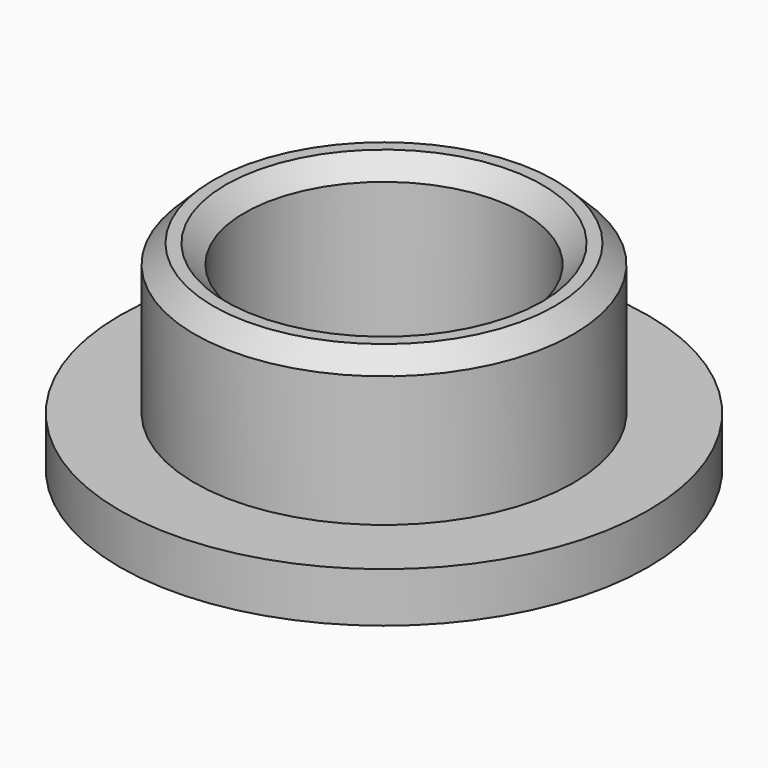
from build123d import *

# Parameters (mm, degrees)
F0_R     = 24.13
F0_R_2   = 17.78
F1_DEPTH = 25.4
F2_R     = 33.655
F2_R_2   = 24.13
F3_DEPTH = 6.35
F4_SIZE  = 2.38125


with BuildPart() as f1:
    # F0 (on Top) → F1 (new body)
    with BuildSketch(Plane.XY):
        Circle(F0_R)
        Circle(F0_R_2, mode=Mode.SUBTRACT)
    extrude(amount=F1_DEPTH)

    # F2 (on Top) → F3 (join)
    with BuildSketch(Plane.XY):
        Circle(F2_R)
        Circle(F2_R_2, mode=Mode.SUBTRACT)
    extrude(amount=F3_DEPTH)

    # F4
    f4_edges = [f1.edges().sort_by_distance(p)[0] for p in [
        (-24.13, 0, 25.4),
        (-17.78, 0, 25.4),
    ]]
    chamfer(f4_edges, length=F4_SIZE)


solid = f1.part
